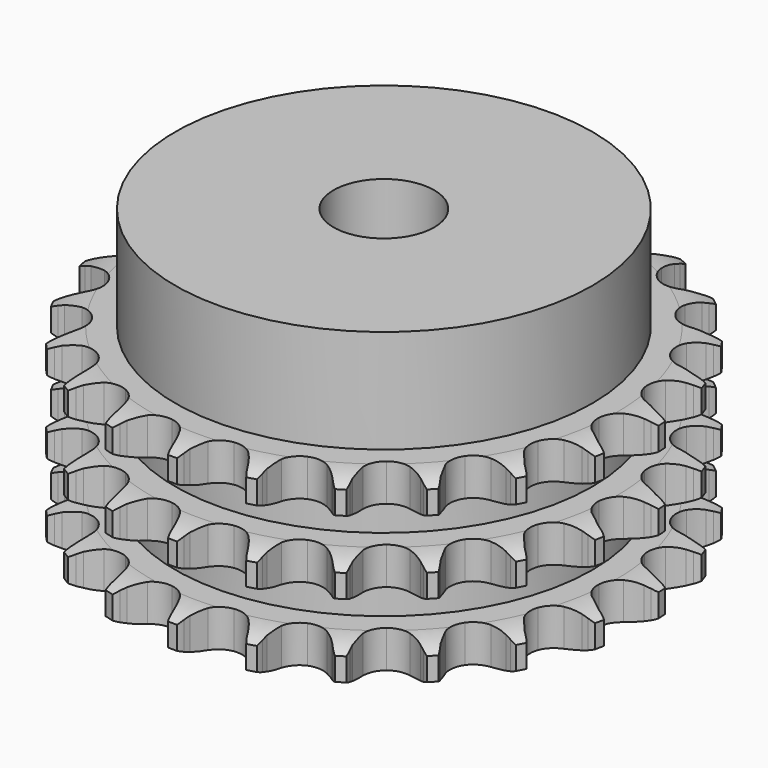
from build123d import *

# Parameters (mm, degrees)
PAD_DEPTH         = 25.6
SKETCH001_R       = 29
PAD001_DEPTH      = 40
SKETCH002_R       = 7
POCKET_DEPTH      = 0.001
POCKET_DEPTH_BACK = 40.001


with BuildPart() as part:
    # Sprocket → Pad (new body)
    with BuildSketch(Plane.XY):
        with BuildLine():
            ThreePointArc((-5.149362, 37.464391), (-4.478189, 36.650296), (-3.985073, 35.717526))
            Line((-3.985073, 35.717526), (-3.677222, 34.957231))
            ThreePointArc((-3.677222, 34.957231), (-3.184, 33.943046), (-2.557984, 33.004993))
            ThreePointArc((-2.557984, 33.004993), (-1.425392, 32.078192), (0, 31.74655))
            ThreePointArc((0, 31.74655), (1.425392, 32.078192), (2.557984, 33.004993))
            ThreePointArc((2.557984, 33.004993), (3.184, 33.943046), (3.677222, 34.957231))
            Line((3.677222, 34.957231), (3.985073, 35.717526))
            ThreePointArc((3.985073, 35.717526), (4.478189, 36.650296), (5.149362, 37.464391))
            ThreePointArc((5.149362, 37.464391), (5.576006, 36.499405), (5.799178, 35.468183))
            Line((5.799178, 35.468183), (5.890487, 34.653025))
            ThreePointArc((5.890487, 34.653025), (6.091796, 33.543379), (6.441513, 32.471214))
            ThreePointArc((6.441513, 32.471214), (7.282058, 31.273211), (8.565117, 30.569302))
            ThreePointArc((8.565117, 30.569302), (10.027127, 30.504079), (11.367768, 31.090942))
            Line((11.367768, 31.090942), (12.972209, 32.668819))
            ThreePointArc((12.972209, 32.668819), (13.214975, 32.999534), (13.473769, 33.317864))
            ThreePointArc((13.473769, 33.317864), (14.200257, 34.083003), (15.066182, 34.685829))
            ThreePointArc((15.066182, 34.685829), (15.216654, 33.64152), (15.15333, 32.588327))
            Line((15.15333, 32.588327), (15.021326, 31.778762))
            ThreePointArc((15.021326, 31.778762), (14.915791, 30.655953), (14.963273, 29.529194))
            ThreePointArc((14.963273, 29.529194), (15.449431, 28.14884), (16.494998, 27.124868))
            ThreePointArc((16.494998, 27.124868), (17.885196, 26.667619), (19.334456, 26.871019))
            Line((19.334456, 26.871019), (21.305106, 27.957511))
            ThreePointArc((21.305106, 27.957511), (21.628096, 28.210465), (21.963177, 28.447167))
            ThreePointArc((21.963177, 28.447167), (22.869157, 28.987929), (23.865611, 29.334777))
            ThreePointArc((23.865611, 29.334777), (23.728753, 28.288597), (23.383629, 27.291544))
            Line((23.383629, 27.291544), (23.038102, 26.547614))
            ThreePointArc((23.038102, 26.547614), (22.63355, 25.494914), (22.375276, 24.397129))
            ThreePointArc((22.375276, 24.397129), (22.470991, 22.936798), (23.20152, 21.668707))
            ThreePointArc((23.20152, 21.668707), (24.416802, 20.853343), (25.867196, 20.658195))
            Line((25.867196, 20.658195), (28.057901, 21.172722))
            ThreePointArc((28.057901, 21.172722), (28.437159, 21.329154), (28.823677, 21.466675))
            ThreePointArc((28.823677, 21.466675), (29.841957, 21.742954), (30.895038, 21.808099))
            ThreePointArc((30.895038, 21.808099), (30.480998, 20.837638), (29.879671, 19.970672))
            Line((29.879671, 19.970672), (29.346247, 19.347551))
            ThreePointArc((29.346247, 19.347551), (28.672682, 18.443035), (28.127806, 17.45564))
            ThreePointArc((28.127806, 17.45564), (27.825979, 16.023639), (28.187292, 14.605478))
            ThreePointArc((28.187292, 14.605478), (29.137525, 13.49247), (30.481485, 12.913247))
            Line((30.481485, 12.913247), (32.72977, 12.817648))
            ThreePointArc((32.72977, 12.817648), (33.137169, 12.865957), (33.546456, 12.894098))
            ThreePointArc((33.546456, 12.894098), (34.601515, 12.885402), (35.633121, 12.664014))
            ThreePointArc((35.633121, 12.664014), (34.972608, 11.841247), (34.159674, 11.168667))
            Line((34.159674, 11.168667), (33.477916, 10.712569))
            ThreePointArc((33.477916, 10.712569), (32.585293, 10.02332), (31.794226, 9.219546))
            ThreePointArc((31.794226, 9.219546), (31.117243, 7.922079), (31.082542, 6.459026))
            ThreePointArc((31.082542, 6.459026), (31.697252, 5.130923), (32.835101, 4.210582))
            Line((32.835101, 4.210582), (34.974222, 3.511949))
            ThreePointArc((34.974222, 3.511949), (35.379547, 3.448551), (35.781248, 3.365224))
            ThreePointArc((35.781248, 3.365224), (36.794837, 3.0722), (37.728458, 2.580697))
            ThreePointArc((37.728458, 2.580697), (36.870459, 1.966645), (35.906211, 1.538333))
            Line((35.906211, 1.538333), (35.12668, 1.283084))
            ThreePointArc((35.12668, 1.283084), (34.081201, 0.860222), (33.102614, 0.299681))
            ThreePointArc((33.102614, 0.299681), (32.100682, -0.767025), (31.672541, -2.166461))
            ThreePointArc((31.672541, -2.166461), (31.906138, -3.611162), (32.753488, -4.804362))
            Line((32.753488, -4.804362), (34.624795, -6.054216))
            ThreePointArc((34.624795, -6.054216), (34.997985, -6.224618), (35.362309, -6.413233))
            ThreePointArc((35.362309, -6.413233), (36.259254, -6.968854), (37.025648, -7.694018))
            ThreePointArc((37.025648, -7.694018), (36.033796, -8.053815), (34.989749, -8.206093))
            Line((34.989749, -8.206093), (34.170259, -8.241561))
            ThreePointArc((34.170259, -8.241561), (33.049463, -8.366676), (31.955932, -8.64241))
            ThreePointArc((31.955932, -8.64241), (30.703361, -9.399242), (29.913533, -10.631272))
            ThreePointArc((29.913533, -10.631272), (29.748692, -12.085423), (30.242698, -13.462988))
            Line((30.242698, -13.462988), (31.707406, -15.171367))
            ThreePointArc((31.707406, -15.171367), (32.020783, -15.436136), (32.320709, -15.71605))
            ThreePointArc((32.320709, -15.71605), (33.034488, -16.493059), (33.576816, -17.398104))
            ThreePointArc((33.576816, -17.398104), (32.524672, -17.476959), (31.478257, -17.34191))
            Line((31.478257, -17.34191), (30.679587, -17.154967))
            ThreePointArc((30.679587, -17.154967), (29.566597, -16.973055), (28.439225, -16.943534))
            ThreePointArc((28.439225, -16.943534), (27.028912, -17.33436), (25.935975, -18.307611))
            ThreePointArc((25.935975, -18.307611), (25.384922, -19.663364), (25.488946, -21.123126))
            Line((25.488946, -21.123126), (26.438423, -23.163327))
            ThreePointArc((26.438423, -23.163327), (26.668746, -23.502826), (26.88203, -23.853279))
            ThreePointArc((26.88203, -23.853279), (27.359705, -24.79405), (27.637744, -25.811851))
            ThreePointArc((27.637744, -25.811851), (26.603342, -25.603918), (25.632166, -25.191557))
            Line((25.632166, -25.191557), (24.91355, -24.796068))
            ThreePointArc((24.91355, -24.796068), (23.890912, -24.32062), (22.813311, -23.988033))
            ThreePointArc((22.813311, -23.988033), (21.349852, -23.983868), (20.034865, -24.626157))
            ThreePointArc((20.034865, -24.626157), (19.138468, -25.782963), (18.844796, -27.216659))
            Line((18.844796, -27.216659), (19.208624, -29.437369))
            ThreePointArc((19.208624, -29.437369), (19.33881, -29.826419), (19.449634, -30.22142))
            ThreePointArc((19.449634, -30.22142), (19.655779, -31.25618), (19.648907, -32.311252))
            ThreePointArc((19.648907, -32.311252), (18.708964, -31.831951), (17.885055, -31.172861))
            Line((17.885055, -31.172861), (17.299789, -30.598158))
            ThreePointArc((17.299789, -30.598158), (16.443347, -29.864437), (15.495437, -29.253449))
            ThreePointArc((15.495437, -29.253449), (14.087372, -28.854602), (12.64786, -29.118294))
            ThreePointArc((12.64786, -29.118294), (11.472601, -29.990357), (10.803013, -31.291656))
            Line((10.803013, -31.291656), (10.554209, -33.528177))
            ThreePointArc((10.554209, -33.528177), (10.574603, -33.937923), (10.574747, -34.348176))
            ThreePointArc((10.574747, -34.348176), (10.494073, -35.400181), (10.202801, -36.414275))
            ThreePointArc((10.202801, -36.414275), (9.427027, -35.699154), (8.811492, -34.842217))
            Line((8.811492, -34.842217), (8.402982, -34.130922))
            ThreePointArc((8.402982, -34.130922), (7.776255, -33.193344), (7.028339, -32.349271))
            ThreePointArc((7.028339, -32.349271), (5.780095, -31.585323), (4.322821, -31.450861))
            ThreePointArc((4.322821, -31.450861), (2.955865, -31.973504), (1.96002, -33.045895))
            Line((1.96002, -33.045895), (1.117036, -35.132352))
            ThreePointArc((1.117036, -35.132352), (1.026126, -35.532406), (0.91558, -35.927485))
            ThreePointArc((0.91558, -35.927485), (0.554069, -36.918714), (0, -37.816617))
            ThreePointArc((0, -37.816617), (-0.554069, -36.918714), (-0.91558, -35.927485))
            Line((-0.91558, -35.927485), (-1.117036, -35.132352))
            ThreePointArc((-1.117036, -35.132352), (-1.467567, -34.060454), (-1.96002, -33.045895))
            ThreePointArc((-1.96002, -33.045895), (-2.955865, -31.973504), (-4.322821, -31.450861))
            ThreePointArc((-4.322821, -31.450861), (-5.780095, -31.585323), (-7.028339, -32.349271))
            Line((-7.028339, -32.349271), (-8.402982, -34.130922))
            ThreePointArc((-8.402982, -34.130922), (-8.598454, -34.491614), (-8.811492, -34.842217))
            ThreePointArc((-8.811492, -34.842217), (-9.427027, -35.699154), (-10.202801, -36.414275))
            ThreePointArc((-10.202801, -36.414275), (-10.494073, -35.400181), (-10.574747, -34.348176))
            Line((-10.574747, -34.348176), (-10.554209, -33.528177))
            ThreePointArc((-10.554209, -33.528177), (-10.602546, -32.401455), (-10.803013, -31.291656))
            ThreePointArc((-10.803013, -31.291656), (-11.472601, -29.990357), (-12.64786, -29.118294))
            ThreePointArc((-12.64786, -29.118294), (-14.087372, -28.854602), (-15.495437, -29.253449))
            Line((-15.495437, -29.253449), (-17.299789, -30.598158))
            ThreePointArc((-17.299789, -30.598158), (-17.585326, -30.892736), (-17.885055, -31.172861))
            ThreePointArc((-17.885055, -31.172861), (-18.708964, -31.831951), (-19.648907, -32.311252))
            ThreePointArc((-19.648907, -32.311252), (-19.655779, -31.25618), (-19.449634, -30.22142))
            Line((-19.449634, -30.22142), (-19.208624, -29.437369))
            ThreePointArc((-19.208624, -29.437369), (-18.951183, -28.339388), (-18.844796, -27.216659))
            ThreePointArc((-18.844796, -27.216659), (-19.138468, -25.782963), (-20.034865, -24.626157))
            ThreePointArc((-20.034865, -24.626157), (-21.349852, -23.983868), (-22.813311, -23.988033))
            Line((-22.813311, -23.988033), (-24.91355, -24.796068))
            ThreePointArc((-24.91355, -24.796068), (-25.267975, -25.002686), (-25.632166, -25.191557))
            ThreePointArc((-25.632166, -25.191557), (-26.603342, -25.603918), (-27.637744, -25.811851))
            ThreePointArc((-27.637744, -25.811851), (-27.359705, -24.79405), (-26.88203, -23.853279))
            Line((-26.88203, -23.853279), (-26.438423, -23.163327))
            ThreePointArc((-26.438423, -23.163327), (-25.894297, -22.175519), (-25.488946, -21.123126))
            ThreePointArc((-25.488946, -21.123126), (-25.384922, -19.663364), (-25.935975, -18.307611))
            ThreePointArc((-25.935975, -18.307611), (-27.028912, -17.33436), (-28.439225, -16.943534))
            Line((-28.439225, -16.943534), (-30.679587, -17.154967))
            ThreePointArc((-30.679587, -17.154967), (-31.076614, -17.2583), (-31.478257, -17.34191))
            ThreePointArc((-31.478257, -17.34191), (-32.524672, -17.476959), (-33.576816, -17.398104))
            ThreePointArc((-33.576816, -17.398104), (-33.034488, -16.493059), (-32.320709, -15.71605))
            Line((-32.320709, -15.71605), (-31.707406, -15.171367))
            ThreePointArc((-31.707406, -15.171367), (-30.91695, -14.366993), (-30.242698, -13.462988))
            ThreePointArc((-30.242698, -13.462988), (-29.748692, -12.085423), (-29.913533, -10.631272))
            ThreePointArc((-29.913533, -10.631272), (-30.703361, -9.399242), (-31.955932, -8.64241))
            Line((-31.955932, -8.64241), (-34.170259, -8.241561))
            ThreePointArc((-34.170259, -8.241561), (-34.580442, -8.233946), (-34.989749, -8.206093))
            ThreePointArc((-34.989749, -8.206093), (-36.033796, -8.053815), (-37.025648, -7.694018))
            ThreePointArc((-37.025648, -7.694018), (-36.259254, -6.968854), (-35.362309, -6.413233))
            Line((-35.362309, -6.413233), (-34.624795, -6.054216))
            ThreePointArc((-34.624795, -6.054216), (-33.646633, -5.492932), (-32.753488, -4.804362))
            ThreePointArc((-32.753488, -4.804362), (-31.906138, -3.611162), (-31.672541, -2.166461))
            ThreePointArc((-31.672541, -2.166461), (-32.100682, -0.767025), (-33.102614, 0.299681))
            Line((-33.102614, 0.299681), (-35.12668, 1.283084))
            ThreePointArc((-35.12668, 1.283084), (-35.519597, 1.401083), (-35.906211, 1.538333))
            ThreePointArc((-35.906211, 1.538333), (-36.870459, 1.966645), (-37.728458, 2.580697))
            ThreePointArc((-37.728458, 2.580697), (-36.794837, 3.0722), (-35.781248, 3.365224))
            Line((-35.781248, 3.365224), (-34.974222, 3.511949))
            ThreePointArc((-34.974222, 3.511949), (-33.8809, 3.788513), (-32.835101, 4.210582))
            ThreePointArc((-32.835101, 4.210582), (-31.697252, 5.130923), (-31.082542, 6.459026))
            ThreePointArc((-31.082542, 6.459026), (-31.117243, 7.922079), (-31.794226, 9.219546))
            Line((-31.794226, 9.219546), (-33.477916, 10.712569))
            ThreePointArc((-33.477916, 10.712569), (-33.824427, 10.9322), (-34.159674, 11.168667))
            ThreePointArc((-34.159674, 11.168667), (-34.972608, 11.841247), (-35.633121, 12.664014))
            ThreePointArc((-35.633121, 12.664014), (-34.601515, 12.885402), (-33.546456, 12.894098))
            Line((-33.546456, 12.894098), (-32.72977, 12.817648))
            ThreePointArc((-32.72977, 12.817648), (-31.602376, 12.788983), (-30.481485, 12.913247))
            ThreePointArc((-30.481485, 12.913247), (-29.137525, 13.49247), (-28.187292, 14.605478))
            ThreePointArc((-28.187292, 14.605478), (-27.825979, 16.023639), (-28.127806, 17.45564))
            Line((-28.127806, 17.45564), (-29.346247, 19.347551))
            ThreePointArc((-29.346247, 19.347551), (-29.620653, 19.652525), (-29.879671, 19.970672))
            ThreePointArc((-29.879671, 19.970672), (-30.480998, 20.837638), (-30.895038, 21.808099))
            ThreePointArc((-30.895038, 21.808099), (-29.841957, 21.742954), (-28.823677, 21.466675))
            Line((-28.823677, 21.466675), (-28.057901, 21.172722))
            ThreePointArc((-28.057901, 21.172722), (-26.980048, 20.840951), (-25.867196, 20.658195))
            ThreePointArc((-25.867196, 20.658195), (-24.416802, 20.853343), (-23.20152, 21.668707))
            ThreePointArc((-23.20152, 21.668707), (-22.470991, 22.936798), (-22.375276, 24.397129))
            Line((-22.375276, 24.397129), (-23.038102, 26.547614))
            ThreePointArc((-23.038102, 26.547614), (-23.220051, 26.915313), (-23.383629, 27.291544))
            ThreePointArc((-23.383629, 27.291544), (-23.728753, 28.288597), (-23.865611, 29.334777))
            ThreePointArc((-23.865611, 29.334777), (-22.869157, 28.987929), (-21.963177, 28.447167))
            Line((-21.963177, 28.447167), (-21.305106, 27.957511))
            ThreePointArc((-21.305106, 27.957511), (-20.356733, 27.347242), (-19.334456, 26.871019))
            ThreePointArc((-19.334456, 26.871019), (-17.885196, 26.667619), (-16.494998, 27.124868))
            ThreePointArc((-16.494998, 27.124868), (-15.449431, 28.14884), (-14.963273, 29.529194))
            Line((-14.963273, 29.529194), (-15.021326, 31.778762))
            ThreePointArc((-15.021326, 31.778762), (-15.097324, 32.181915), (-15.15333, 32.588327))
            ThreePointArc((-15.15333, 32.588327), (-15.216654, 33.64152), (-15.066182, 34.685829))
            ThreePointArc((-15.066182, 34.685829), (-14.200257, 34.083003), (-13.473769, 33.317864))
            Line((-13.473769, 33.317864), (-12.972209, 32.668819))
            ThreePointArc((-12.972209, 32.668819), (-12.223653, 31.825313), (-11.367768, 31.090942))
            ThreePointArc((-11.367768, 31.090942), (-10.027127, 30.504079), (-8.565117, 30.569302))
            ThreePointArc((-8.565117, 30.569302), (-7.282058, 31.273211), (-6.441513, 32.471214))
            Line((-6.441513, 32.471214), (-5.890487, 34.653025))
            ThreePointArc((-5.890487, 34.653025), (-5.854897, 35.061731), (-5.799178, 35.468183))
            ThreePointArc((-5.799178, 35.468183), (-5.576006, 36.499405), (-5.149362, 37.464391))
        make_face()
    extrude(amount=PAD_DEPTH)

    # Sketch → Groove (revolve, cut)
    with BuildSketch(Plane.XZ):
        with BuildLine():
            ThreePointArc((32.391101, 0), (34.627169, 0.253206), (36.75, 1))
            Line((36.75, 1), (36.75, 4.2))
            ThreePointArc((36.75, 4.2), (34.627169, 4.946794), (32.391101, 5.2))
            Line((29, 5.2), (32.391101, 5.2))
            Line((29, 5.2), (29, 10.2))
            Line((29, 10.2), (32.391101, 10.2))
            ThreePointArc((32.391101, 10.2), (34.627169, 10.453206), (36.75, 11.2))
            Line((36.75, 14.4), (36.75, 11.2))
            ThreePointArc((36.75, 14.4), (34.627169, 15.146794), (32.391101, 15.4))
            Line((29, 15.4), (32.391101, 15.4))
            Line((29, 20.4), (29, 15.4))
            Line((32.391101, 20.4), (29, 20.4))
            ThreePointArc((32.391101, 20.4), (34.627169, 20.653206), (36.75, 21.4))
            Line((36.75, 21.4), (36.75, 24.6))
            ThreePointArc((36.75, 24.6), (34.627169, 25.346794), (32.391101, 25.6))
            Line((32.391101, 25.6), (46.75, 25.6))
            Line((46.75, 25.6), (46.75, 0))
            Line((32.391101, 0), (46.75, 0))
        make_face()
    revolve(axis=Axis((0, 0, 0), (0, 0, 1)), mode=Mode.SUBTRACT)

    # Sketch001 → Pad001 (join)
    with BuildSketch(Plane.XY):
        Circle(SKETCH001_R)
    extrude(amount=PAD001_DEPTH)

    # Sketch002 → Pocket (cut, two sides)
    with BuildSketch(Plane.XY) as pocket_sk:
        Circle(SKETCH002_R)
    extrude(amount=-POCKET_DEPTH, mode=Mode.SUBTRACT)
    extrude(pocket_sk.sketch, amount=POCKET_DEPTH_BACK, mode=Mode.SUBTRACT)


solid = part.part
